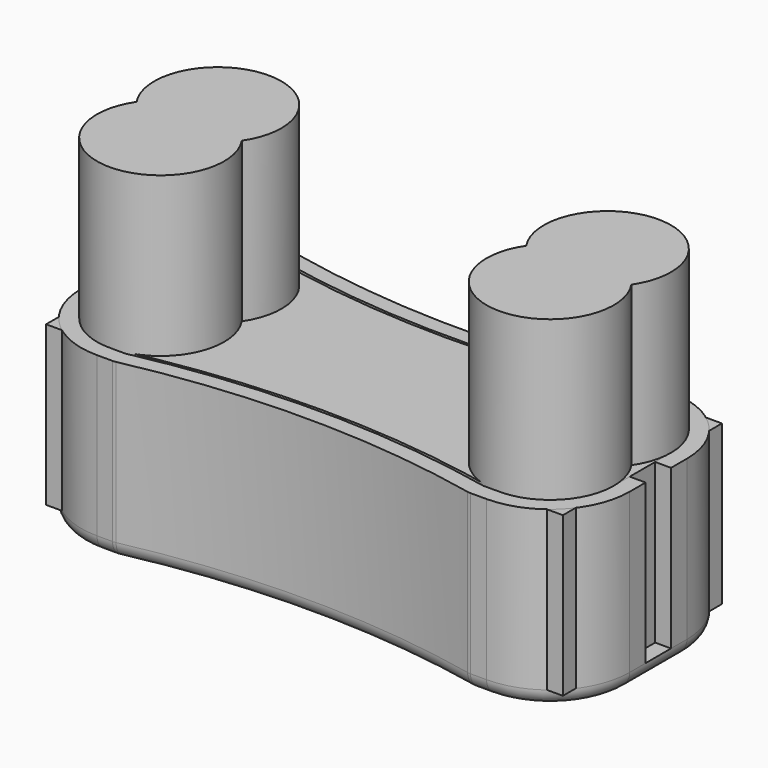
from build123d import *

# Parameters (mm, degrees)
CYLINDER001_R     = 8
CYLINDER001_DEPTH = 40
CYLINDER_R        = 8
CYLINDER_DEPTH    = 40
CYLINDER003_R     = 8
CYLINDER003_DEPTH = 40
CYLINDER002_R     = 8
CYLINDER002_DEPTH = 40
CYLINDER007_R     = 109.35
CYLINDER007_DEPTH = 40
CYLINDER006_R     = 109.35
CYLINDER006_DEPTH = 40
BOX001_W          = 65
BOX001_H          = 25
BOX001_DEPTH      = 20
BOX003_W          = 20
BOX003_H          = 20
BOX003_DEPTH      = 10
CYLINDER008_R     = 3.5
CYLINDER008_DEPTH = 20
BOX002_W          = 5
BOX002_H          = 4
BOX002_DEPTH      = 20
CYLINDER004_R     = 109
CYLINDER004_DEPTH = 40
CYLINDER005_R     = 109
CYLINDER005_DEPTH = 40
BOX_W             = 65
BOX_H             = 25
BOX_DEPTH         = 20
FILLET_R          = 8
THICKNESS_T       = 2


with BuildPart() as obj1:
    # Cylinder001 → Cylinder001 (new body)
    with BuildSketch(Plane(origin=(8, 17, 0), x_dir=(1, 0, 0), z_dir=(0, 0, 1))):
        Circle(CYLINDER001_R)
    extrude(amount=CYLINDER001_DEPTH)


with BuildPart() as obj2:
    # Cylinder → Cylinder (new body)
    with BuildSketch(Plane(origin=(8, 8, 0), x_dir=(1, 0, 0), z_dir=(0, 0, 1))):
        Circle(CYLINDER_R)
    extrude(amount=CYLINDER_DEPTH)

    # Fusion: union obj1
    add(obj1.part)


with BuildPart() as obj3:
    # Cylinder003 → Cylinder003 (new body)
    with BuildSketch(Plane(origin=(57, 8, 0), x_dir=(1, 0, 0), z_dir=(0, 0, 1))):
        Circle(CYLINDER003_R)
    extrude(amount=CYLINDER003_DEPTH)


with BuildPart() as obj4:
    # Cylinder002 → Cylinder002 (new body)
    with BuildSketch(Plane(origin=(57, 17, 0), x_dir=(1, 0, 0), z_dir=(0, 0, 1))):
        Circle(CYLINDER002_R)
    extrude(amount=CYLINDER002_DEPTH)

    # Fusion001: union obj3
    add(obj3.part)


with BuildPart() as obj5:
    # Cylinder007 → Cylinder007 (new body)
    with BuildSketch(Plane(origin=(32.47, -106.65, 0), x_dir=(1, 0, 0), z_dir=(0, 0, 1))):
        Circle(CYLINDER007_R)
    extrude(amount=CYLINDER007_DEPTH)


with BuildPart() as cilindro_alto_grande001:
    # Cylinder006 → Cylinder006 (new body)
    with BuildSketch(Plane(origin=(32.47, 131.65, 0), x_dir=(1, 0, 0), z_dir=(0, 0, 1))):
        Circle(CYLINDER006_R)
    extrude(amount=CYLINDER006_DEPTH)


with BuildPart() as obj6:
    # Box001 → Box001 (new body)
    with BuildSketch(Plane.XY):
        with Locations((32.5, 12.5)):
            Rectangle(BOX001_W, BOX001_H)
    extrude(amount=BOX001_DEPTH)

    # Cut002: cut Cilindro_Alto_grande001
    add(cilindro_alto_grande001.part, mode=Mode.SUBTRACT)

    # Cut003: cut obj5
    add(obj5.part, mode=Mode.SUBTRACT)


with BuildPart() as obj7:
    # Box003 → Box003 (new body)
    with BuildSketch(Plane(origin=(22, 2.5, 0), x_dir=(1, 0, 0), z_dir=(0, 0, 1))):
        with Locations((10, 10)):
            Rectangle(BOX003_W, BOX003_H)
    extrude(amount=BOX003_DEPTH)


with BuildPart() as cilindro:
    # Cylinder008 → Cylinder008 (new body)
    with BuildSketch(Plane(origin=(5.5, 12.5, 0), x_dir=(1, 0, 0), z_dir=(0, 0, 1))):
        Circle(CYLINDER008_R)
    extrude(amount=CYLINDER008_DEPTH)


with BuildPart() as ranura:
    # Box002 → Box002 (new body)
    with BuildSketch(Plane(origin=(65, 10.5, 0), x_dir=(1, 0, 0), z_dir=(0, 0, 1))):
        with Locations((2.5, 2)):
            Rectangle(BOX002_W, BOX002_H)
    extrude(amount=BOX002_DEPTH)


with BuildPart() as obj8:
    # Cylinder004 → Cylinder004 (new body)
    with BuildSketch(Plane(origin=(32.47, -106.65, 0), x_dir=(1, 0, 0), z_dir=(0, 0, 1))):
        Circle(CYLINDER004_R)
    extrude(amount=CYLINDER004_DEPTH)


with BuildPart() as cilindro_alto_grande:
    # Cylinder005 → Cylinder005 (new body)
    with BuildSketch(Plane(origin=(32.47, 131.65, 0), x_dir=(1, 0, 0), z_dir=(0, 0, 1))):
        Circle(CYLINDER005_R)
    extrude(amount=CYLINDER005_DEPTH)


with BuildPart() as final_con_cilindro:
    # Box → Box (new body)
    with BuildSketch(Plane.XY):
        with Locations((32.5, 12.5)):
            Rectangle(BOX_W, BOX_H)
    extrude(amount=BOX_DEPTH)

    # Cut: cut Cilindro_Alto_grande
    add(cilindro_alto_grande.part, mode=Mode.SUBTRACT)

    # Cut001: cut obj8
    add(obj8.part, mode=Mode.SUBTRACT)

    # Fillet
    fillet_edges = [final_con_cilindro.edges().sort_by_distance(p)[0] for p in [
        (0, 0, 10),
        (0, 25, 10),
        (65, 25, 10),
        (65, 0, 10),
    ]]
    fillet(fillet_edges, radius=FILLET_R)

    # Thickness
    thickness_openings = [final_con_cilindro.faces().sort_by_distance(p)[0] for p in [
        (32.502969, 12.5, 20),
    ]]
    offset(amount=THICKNESS_T, openings=thickness_openings)

    # Cut004: cut ranura
    add(ranura.part, mode=Mode.SUBTRACT)

    # Fusion002: union Cilindro
    add(cilindro.part)


solid = Compound([obj2.part, obj4.part, obj6.part, obj7.part, final_con_cilindro.part])
